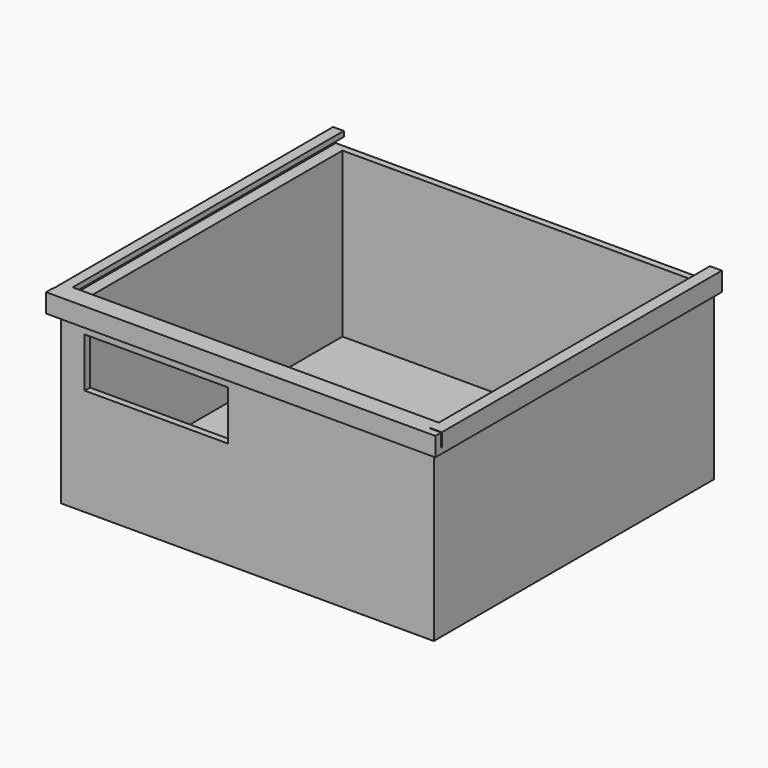
from build123d import *

# Parameters (mm, degrees)
F0_W      = 140
F0_H      = 130
F1_DEPTH  = 65
F2_W      = 138
F2_H      = 128
F3_DEPTH  = 63
F4_W      = 60
F4_H      = 20
F5_DEPTH  = 25
F7_W      = 130
F7_H      = 2.0862916112
F8_DEPTH  = 3
F9_W      = 1.5
F9_H      = 130
F10_DEPTH = 5
F11_W     = 130
F11_H     = 2
F12_DEPTH = 3
F13_W     = 130
F13_H     = 2
F14_DEPTH = 3
F15_W     = 1
F15_H     = 130
F16_DEPTH = 5
F17_W     = 130
F17_H     = 2
F18_DEPTH = 3
F19_DEPTH = 1.5
F20_DEPTH = 1.5
F21_DEPTH = 1.5
F22_DEPTH = 1.5
F23_DEPTH = 1.5
F25_DEPTH = 3
F26_W     = 80.1923086047
F26_H     = 2.75
F27_DEPTH = 5
F28_W     = 75.8964964747
F28_H     = 2.1470558643
F29_DEPTH = 4.5
F30_W     = 59.895
F30_H     = 4
F31_DEPTH = 3
F32_DEPTH = 62
F33_W     = 53.8761485368
F33_H     = 18.5779780149
F34_DEPTH = 3
F35_DEPTH = 4


with BuildPart() as f1:
    # F0 (on Top) → F1 (new body)
    with BuildSketch(Plane.XY):
        Rectangle(F0_W, F0_H)
    extrude(amount=F1_DEPTH)

    # F2 (on face) → F3 (cut)
    with BuildSketch(Plane.XY.offset(65)):
        Rectangle(F2_W, F2_H)
    extrude(amount=-F3_DEPTH, mode=Mode.SUBTRACT)

    # F4 (on face) → F5 (cut)
    with BuildSketch(Plane.XZ.offset(65)):
        with Locations((-37.1923086047, 55)):
            Rectangle(F4_W, F4_H)
    extrude(amount=-F5_DEPTH, mode=Mode.SUBTRACT)

    # F7 (on face) → F8 (join)
    with BuildSketch(Plane.YZ.offset(70)):
        with Locations((0, 63.9568541944)):
            Rectangle(F7_W, F7_H)
    extrude(amount=F8_DEPTH)

    # F9 (on face) → F10 (join)
    with BuildSketch(Plane.XY.offset(65)):
        with Locations((72.25, 0)):
            Rectangle(F9_W, F9_H)
    extrude(amount=F10_DEPTH)

    # F11 (on face) → F12 (join)
    with BuildSketch(Plane(origin=(71.5, 0, 0), x_dir=(0, -1, 0), z_dir=(-1, 0, 0))):
        with Locations((0, 69)):
            Rectangle(F11_W, F11_H)
    extrude(amount=F12_DEPTH)

    # F13 (on face) → F14 (join)
    with BuildSketch(Plane(origin=(-70, 0, 0), x_dir=(0, -1, 0), z_dir=(-1, 0, 0))):
        with Locations((0, 64)):
            Rectangle(F13_W, F13_H)
    extrude(amount=F14_DEPTH)

    # F15 (on face) → F16 (join)
    with BuildSketch(Plane.XY.offset(65)):
        with Locations((-72.5, 0)):
            Rectangle(F15_W, F15_H)
    extrude(amount=F16_DEPTH)

    # F17 (on face) → F18 (join)
    with BuildSketch(Plane.YZ.offset(-72)):
        with Locations((0, 69)):
            Rectangle(F17_W, F17_H)
    extrude(amount=F18_DEPTH)

    # F19 (add): a face of the model
    f19_faces = [f1.faces().sort_by_distance(p)[0] for p in [
        (5.6478539393, -65, 29.2570369854),
    ]]
    extrude(f19_faces, amount=F19_DEPTH)

    # F20 (add): a face of the model
    f20_faces = [f1.faces().sort_by_distance(p)[0] for p in [
        (0, 64, 33.5),
    ]]
    extrude(f20_faces, amount=F20_DEPTH)

    # F21 (add): a face of the model
    f21_faces = [f1.faces().sort_by_distance(p)[0] for p in [
        (-69, -0.75, 33.5),
    ]]
    extrude(f21_faces, amount=F21_DEPTH)

    # F22 (add): a face of the model
    f22_faces = [f1.faces().sort_by_distance(p)[0] for p in [
        (0.75, -0.75, 2),
    ]]
    extrude(f22_faces, amount=F22_DEPTH)

    # F23 (add): a face of the model
    f23_faces = [f1.faces().sort_by_distance(p)[0] for p in [
        (69, -0.75, 34.25),
    ]]
    extrude(f23_faces, amount=F23_DEPTH)

    # F24 (on face) → F25 (join)
    with BuildSketch(Plane.XZ.offset(66.5)):
        Polygon((70, 62.9137083888), (73, 62.9137083888), (73, 65), (71.5, 65), (-7.1923086047, 65), (-7.1923086047, 62.9137083888), align=None)
    extrude(amount=F25_DEPTH)

    # F26 (on face) → F27 (join)
    with BuildSketch(Plane.XY.offset(65)):
        with Locations((32.9038456976, -68.125)):
            Rectangle(F26_W, F26_H)
    extrude(amount=F27_DEPTH)

    # F28 (on face) → F29 (join)
    with BuildSketch(Plane(origin=(0, -66.75, 0), x_dir=(-1, 0, 0), z_dir=(0, 1, 0))):
        with Locations((-30.7559396327, 68.9264720678)):
            Rectangle(F28_W, F28_H)
    extrude(amount=F29_DEPTH)

    # F30 (on face) → F31 (cut)
    with BuildSketch(Plane.XZ.offset(66.5)):
        with Locations((-37.1398086047, 43)):
            Rectangle(F30_W, F30_H)
    extrude(amount=-F31_DEPTH, mode=Mode.SUBTRACT)

    # F32 (add): a face of the model
    f32_faces = [f1.faces().sort_by_distance(p)[0] for p in [
        (-7.1923086047, -65.8019850182, 57.704218208),
    ]]
    extrude(f32_faces, amount=F32_DEPTH)

    # F33 (on face) → F34 (cut)
    with BuildSketch(Plane.XZ.offset(66.5)):
        with Locations((-34.1628445312, 49.4380742311)):
            Rectangle(F33_W, F33_H)
    extrude(amount=-F34_DEPTH, mode=Mode.SUBTRACT)

    # F35 (add): a face of the model
    f35_faces = [f1.faces().sort_by_distance(p)[0] for p in [
        (-69.1923086047, -67.9393083677, 66.5012630043),
    ]]
    extrude(f35_faces, amount=F35_DEPTH)


solid = f1.part
